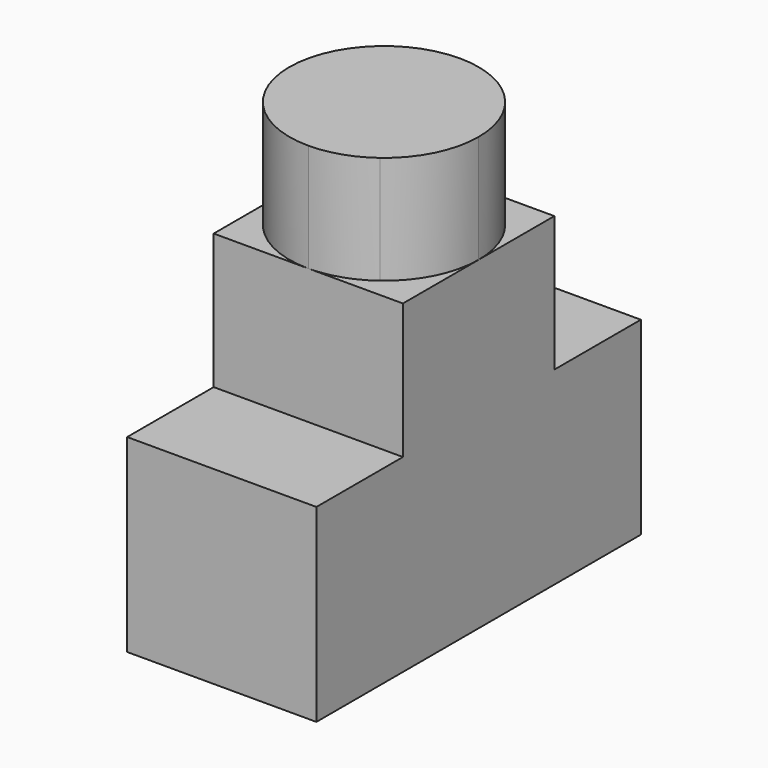
from build123d import *

# Parameters (mm, degrees)
F1_DEPTH = 3.5
F2_DEPTH = 8
F3_DEPTH = 6


with BuildPart() as f1:
    # F0 (on Top) → F1 (new body)
    with BuildSketch(Plane.XY):
        with BuildLine():
            Line((1.05, -1.4), (1.75, -1.75))
            Line((1.75, -1.75), (1.75, 0))
            ThreePointArc((1.75, 0), (1.5652475842, -0.7826237921), (1.05, -1.4))
        make_face()
        Polygon((0, 1.75), (1.75, 1.75), (1.75, 3.75), (-1.75, 3.75), (-1.75, 1.75), align=None)
        Polygon((-1.75, -3.75), (1.75, -3.75), (1.75, -1.75), (0, -1.75), (-1.75, -1.75), align=None)
        with BuildLine():
            Line((0, -1.75), (1.75, -1.75))
            Line((1.75, -1.75), (1.05, -1.4))
            ThreePointArc((1.05, -1.4), (0.5533985905, -1.6601957716), (0, -1.75))
        make_face()
        with BuildLine():
            ThreePointArc((-1.75, 0), (-1.2374368671, -1.2374368671), (0, -1.75))
            ThreePointArc((0, -1.75), (0.5533985905, -1.6601957716), (1.05, -1.4))
            Line((1.05, -1.4), (-1.75, 0))
        make_face()
        with BuildLine():
            ThreePointArc((0, 1.75), (-1.2374368671, 1.2374368671), (-1.75, 0))
            Line((-1.75, 0), (1.05, 1.4))
            ThreePointArc((1.05, 1.4), (0.5533985905, 1.6601957716), (0, 1.75))
        make_face()
        with BuildLine():
            Line((1.05, 1.4), (1.75, 1.75))
            Line((1.75, 1.75), (0, 1.75))
            ThreePointArc((0, 1.75), (0.5533985905, 1.6601957716), (1.05, 1.4))
        make_face()
        with BuildLine():
            Line((-1.75, 0), (-1.75, -1.75))
            Line((-1.75, -1.75), (0, -1.75))
            ThreePointArc((0, -1.75), (-1.2374368671, -1.2374368671), (-1.75, 0))
        make_face()
        with BuildLine():
            ThreePointArc((1.05, -1.4), (1.5652475842, -0.7826237921), (1.75, 0))
            ThreePointArc((1.75, 0), (1.5652475842, 0.7826237921), (1.05, 1.4))
            Line((1.05, 1.4), (-1.75, 0))
            Line((-1.75, 0), (1.05, -1.4))
        make_face()
        with BuildLine():
            Line((-1.75, 1.75), (-1.75, 0))
            ThreePointArc((-1.75, 0), (-1.2374368671, 1.2374368671), (0, 1.75))
            Line((0, 1.75), (-1.75, 1.75))
        make_face()
        with BuildLine():
            ThreePointArc((1.05, 1.4), (1.5652475842, 0.7826237921), (1.75, 0))
            Line((1.75, 0), (1.75, 1.75))
            Line((1.75, 1.75), (1.05, 1.4))
        make_face()
    extrude(amount=F1_DEPTH)

    # F0 (on Top) → F2 (join)
    with BuildSketch(Plane.XY):
        with BuildLine():
            ThreePointArc((1.05, -1.4), (1.5652475842, -0.7826237921), (1.75, 0))
            ThreePointArc((1.75, 0), (1.5652475842, 0.7826237921), (1.05, 1.4))
            Line((1.05, 1.4), (-1.75, 0))
            Line((-1.75, 0), (1.05, -1.4))
        make_face()
        with BuildLine():
            ThreePointArc((-1.75, 0), (-1.2374368671, -1.2374368671), (0, -1.75))
            ThreePointArc((0, -1.75), (0.5533985905, -1.6601957716), (1.05, -1.4))
            Line((1.05, -1.4), (-1.75, 0))
        make_face()
        with BuildLine():
            ThreePointArc((0, 1.75), (-1.2374368671, 1.2374368671), (-1.75, 0))
            Line((-1.75, 0), (1.05, 1.4))
            ThreePointArc((1.05, 1.4), (0.5533985905, 1.6601957716), (0, 1.75))
        make_face()
    extrude(amount=F2_DEPTH)

    # F0 (on Top) → F3 (join)
    with BuildSketch(Plane.XY):
        with BuildLine():
            Line((0, -1.75), (1.75, -1.75))
            Line((1.75, -1.75), (1.05, -1.4))
            ThreePointArc((1.05, -1.4), (0.5533985905, -1.6601957716), (0, -1.75))
        make_face()
        with BuildLine():
            ThreePointArc((-1.75, 0), (-1.2374368671, -1.2374368671), (0, -1.75))
            ThreePointArc((0, -1.75), (0.5533985905, -1.6601957716), (1.05, -1.4))
            Line((1.05, -1.4), (-1.75, 0))
        make_face()
        with BuildLine():
            ThreePointArc((0, 1.75), (-1.2374368671, 1.2374368671), (-1.75, 0))
            Line((-1.75, 0), (1.05, 1.4))
            ThreePointArc((1.05, 1.4), (0.5533985905, 1.6601957716), (0, 1.75))
        make_face()
        with BuildLine():
            Line((1.05, 1.4), (1.75, 1.75))
            Line((1.75, 1.75), (0, 1.75))
            ThreePointArc((0, 1.75), (0.5533985905, 1.6601957716), (1.05, 1.4))
        make_face()
        with BuildLine():
            Line((1.05, -1.4), (1.75, -1.75))
            Line((1.75, -1.75), (1.75, 0))
            ThreePointArc((1.75, 0), (1.5652475842, -0.7826237921), (1.05, -1.4))
        make_face()
        with BuildLine():
            ThreePointArc((1.05, 1.4), (1.5652475842, 0.7826237921), (1.75, 0))
            Line((1.75, 0), (1.75, 1.75))
            Line((1.75, 1.75), (1.05, 1.4))
        make_face()
        with BuildLine():
            Line((-1.75, 0), (-1.75, -1.75))
            Line((-1.75, -1.75), (0, -1.75))
            ThreePointArc((0, -1.75), (-1.2374368671, -1.2374368671), (-1.75, 0))
        make_face()
        with BuildLine():
            Line((-1.75, 1.75), (-1.75, 0))
            ThreePointArc((-1.75, 0), (-1.2374368671, 1.2374368671), (0, 1.75))
            Line((0, 1.75), (-1.75, 1.75))
        make_face()
    extrude(amount=F3_DEPTH)


solid = f1.part
